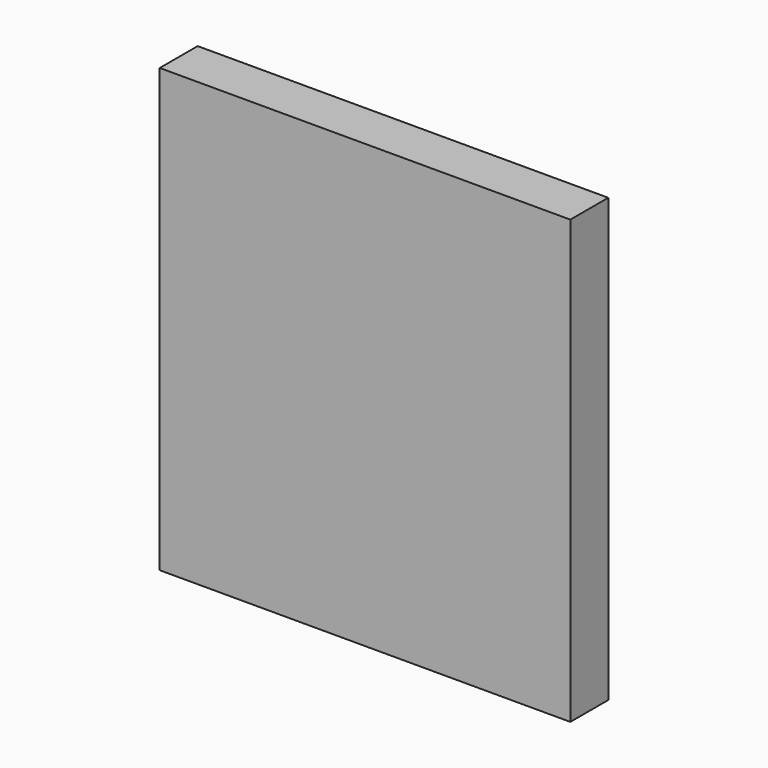
from build123d import *

# Parameters (mm, degrees)
F0_W     = 165.1
F0_H     = 44.45
F1_DEPTH = 19.05


with BuildPart() as f1:
    # F0 (on Front) → F1 (new body)
    with BuildSketch(Plane.XZ):
        with Locations((82.55, 155.575)):
            Rectangle(F0_W, F0_H)
        with Locations((82.55, 111.125)):
            Rectangle(F0_W, F0_H)
        with Locations((82.55, 66.675)):
            Rectangle(F0_W, F0_H)
        with Locations((82.55, 22.225)):
            Rectangle(F0_W, F0_H)
    extrude(amount=-F1_DEPTH)


solid = f1.part
